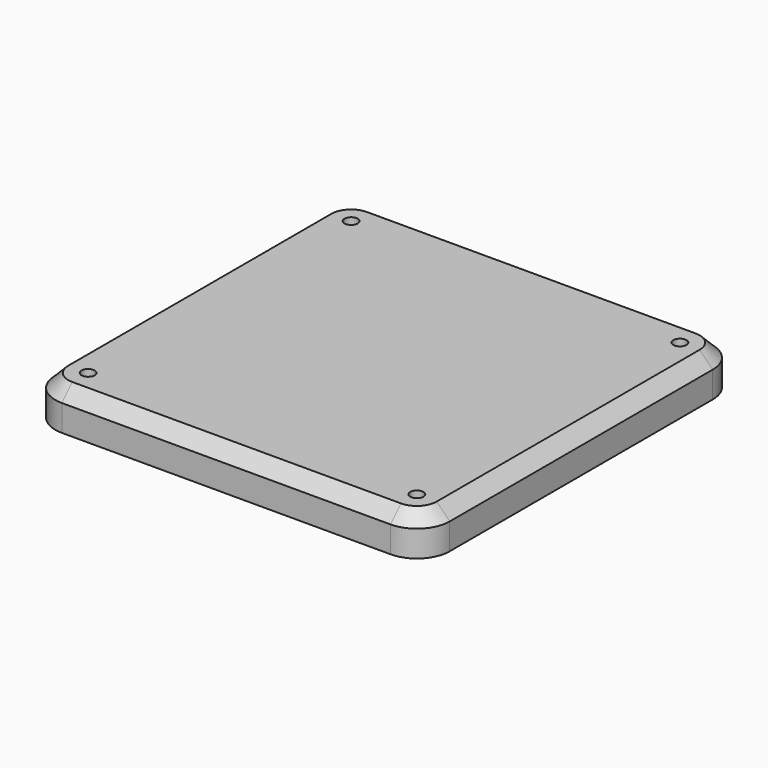
from build123d import *

# Parameters (mm, degrees)
F0_W     = 300
F0_H     = 300
F1_DEPTH = 30
F2_D     = 10
F3_R     = 25
F4_SIZE2 = 10
F4_SIZE  = 10


with BuildPart() as f1:
    # F0 (on Top) → F1 (new body)
    with BuildSketch(Plane.XY):
        with Locations((150, 150)):
            Rectangle(F0_W, F0_H)
    extrude(amount=F1_DEPTH)

    # F2 (through all)
    with Locations(Plane(origin=(0, 0, 0), x_dir=(1, 0, 0), z_dir=(0, 0, -1))):
        with Locations((275, -275), (25, -275), (275, -25), (25, -25)):
            Hole(F2_D / 2)

    # F3
    f3_edges = [f1.edges().sort_by_distance(p)[0] for p in [
        (0, 300, 15),
        (0, 0, 15),
        (300, 0, 15),
        (300, 300, 15),
    ]]
    fillet(f3_edges, radius=F3_R)

    # F4
    f4_edges = [f1.edges().sort_by_distance(p)[0] for p in [
        (0, 150, 30),
    ]]
    chamfer(f4_edges, length=F4_SIZE, length2=F4_SIZE2)


solid = f1.part
